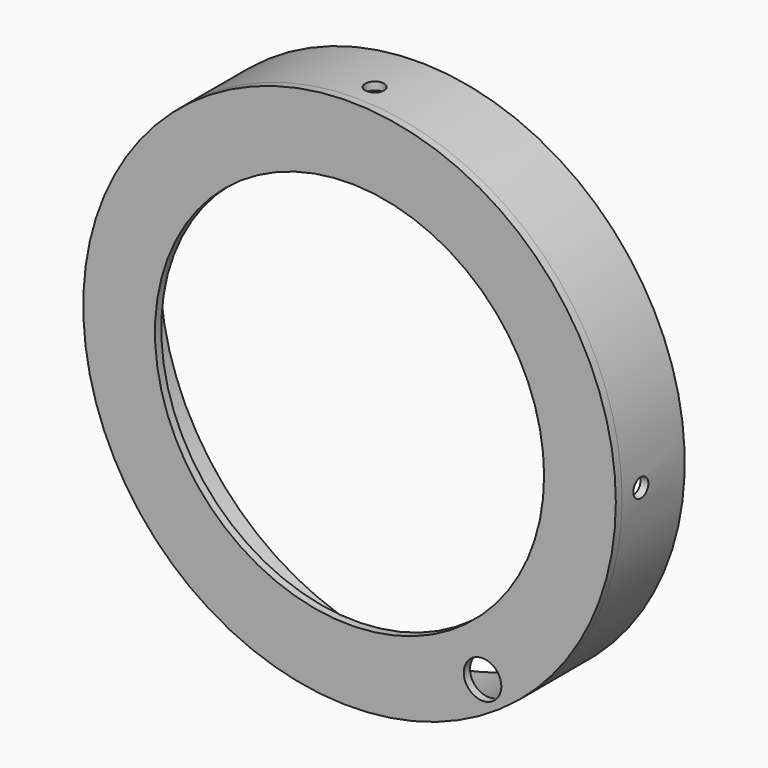
from build123d import *

# Parameters (mm, degrees)
F0_R          = 85
F0_R_2        = 62.1020092735
F1_DEPTH      = 2.5
F2_R          = 85
F2_R_2        = 82.5
F3_DEPTH      = 25
F4_R          = 3
F5_DEPTH      = 85.001
F5_DEPTH_BACK = 85.001
F6_R          = 3
F7_DEPTH      = 85.0010001
F7_DEPTH_BACK = 85.0010001
F8_R          = 6
F9_DEPTH      = 25


with BuildPart() as f1:
    # F0 (on Front) → F1 (new body)
    with BuildSketch(Plane.XZ):
        Circle(F0_R)
        Circle(F0_R_2, mode=Mode.SUBTRACT)
    extrude(amount=F1_DEPTH)

    # F2 (on face) → F3 (join)
    with BuildSketch(Plane(origin=(0, 0, 0), x_dir=(-1, 0, 0), z_dir=(0, 1, 0))):
        Circle(F2_R)
        Circle(F2_R_2, mode=Mode.SUBTRACT)
    extrude(amount=F3_DEPTH)

    # F4 (on Top) → F5 (cut, two sides)
    with BuildSketch(Plane.XY) as f5_sk:
        with Locations((0, 7.5)):
            Circle(F4_R)
    extrude(amount=-F5_DEPTH, mode=Mode.SUBTRACT)
    extrude(f5_sk.sketch, amount=F5_DEPTH_BACK, mode=Mode.SUBTRACT)

    # F6 (on Right) → F7 (cut, two sides)
    with BuildSketch(Plane.YZ) as f7_sk:
        with Locations((7.5, 0)):
            Circle(F6_R)
    extrude(amount=F7_DEPTH, mode=Mode.SUBTRACT)
    extrude(f7_sk.sketch, amount=-F7_DEPTH_BACK, mode=Mode.SUBTRACT)

    # F8 (on Front) → F9 (cut)
    with BuildSketch(Plane.XZ):
        with Locations((42.4534804545, -63.6392331608)):
            Circle(F8_R)
    extrude(amount=F9_DEPTH, mode=Mode.SUBTRACT)


solid = f1.part
